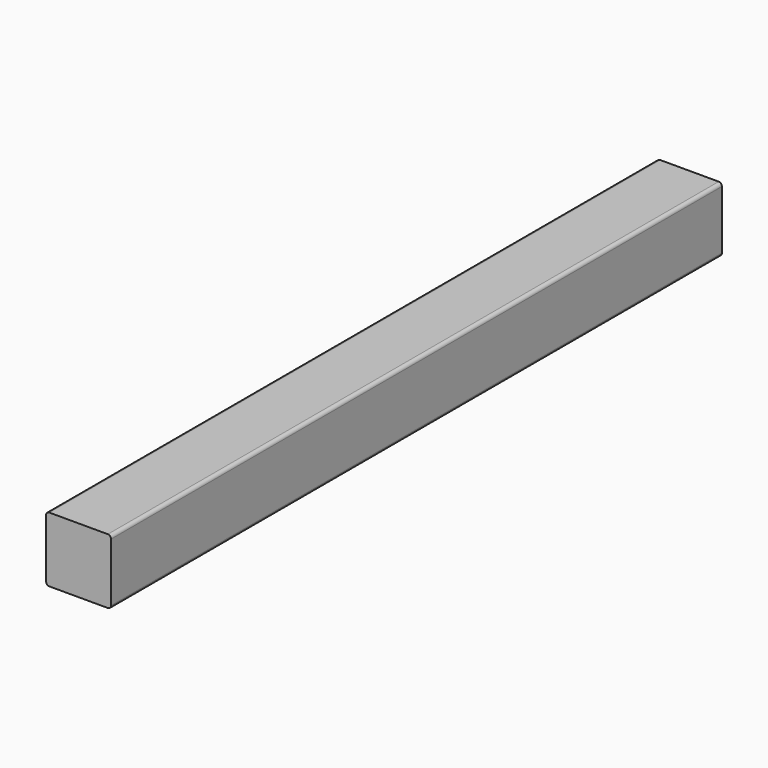
from build123d import *

# Parameters (mm, degrees)
F1_DEPTH = 1155
F4_DEPTH = 20
F7_DEPTH = 10


with BuildPart() as f1:
    # F0 (on Front) → F1 (new body)
    with BuildSketch(Plane.XZ):
        with BuildLine():
            ThreePointArc((50, 45), (48.5355339059, 48.5355339059), (45, 50))
            Line((45, 50), (-45, 50))
            ThreePointArc((-45, 50), (-48.5355339059, 48.5355339059), (-50, 45))
            Line((-50, 45), (-50, -45))
            ThreePointArc((-50, -45), (-48.5355339059, -48.5355339059), (-45, -50))
            Line((-45, -50), (45, -50))
            ThreePointArc((45, -50), (48.5355339059, -48.5355339059), (50, -45))
            Line((50, -45), (50, 45))
        make_face()
        with BuildLine():
            ThreePointArc((-47, 45), (-46.4142135624, 46.4142135624), (-45, 47))
            Line((-45, 47), (45, 47))
            ThreePointArc((45, 47), (46.4142135624, 46.4142135624), (47, 45))
            Line((47, 45), (47, -45))
            ThreePointArc((47, -45), (46.4142135624, -46.4142135624), (45, -47))
            Line((45, -47), (-45, -47))
            ThreePointArc((-45, -47), (-46.4142135624, -46.4142135624), (-47, -45))
            Line((-47, -45), (-47, 45))
        make_face(mode=Mode.SUBTRACT)
    extrude(amount=-F1_DEPTH)

    # F3 (on offset) → F4 (join)
    with BuildSketch(Plane.XZ.offset(10)):
        with BuildLine():
            Line((45, 50), (-45, 50))
            ThreePointArc((-45, 50), (-48.5355339059, 48.5355339059), (-50, 45))
            Line((-50, 45), (-50, -45))
            ThreePointArc((-50, -45), (-48.5355339059, -48.5355339059), (-45, -50))
            Line((-45, -50), (45, -50))
            ThreePointArc((45, -50), (48.5355339059, -48.5355339059), (50, -45))
            Line((50, -45), (50, 45))
            ThreePointArc((50, 45), (48.5355339059, 48.5355339059), (45, 50))
        make_face()
    extrude(amount=-F4_DEPTH)

    # F6 (on offset) → F7 (join)
    with BuildSketch(Plane(origin=(0, 1165, 0), x_dir=(-1, 0, 0), z_dir=(0, 1, 0))):
        with BuildLine():
            Line((45, 50), (-45, 50))
            ThreePointArc((-45, 50), (-48.5355339059, 48.5355339059), (-50, 45))
            Line((-50, 45), (-50, -45))
            ThreePointArc((-50, -45), (-48.5355339059, -48.5355339059), (-45, -50))
            Line((-45, -50), (45, -50))
            ThreePointArc((45, -50), (48.5355339059, -48.5355339059), (50, -45))
            Line((50, -45), (50, 45))
            ThreePointArc((50, 45), (48.5355339059, 48.5355339059), (45, 50))
        make_face()
    extrude(amount=-F7_DEPTH)


solid = f1.part
